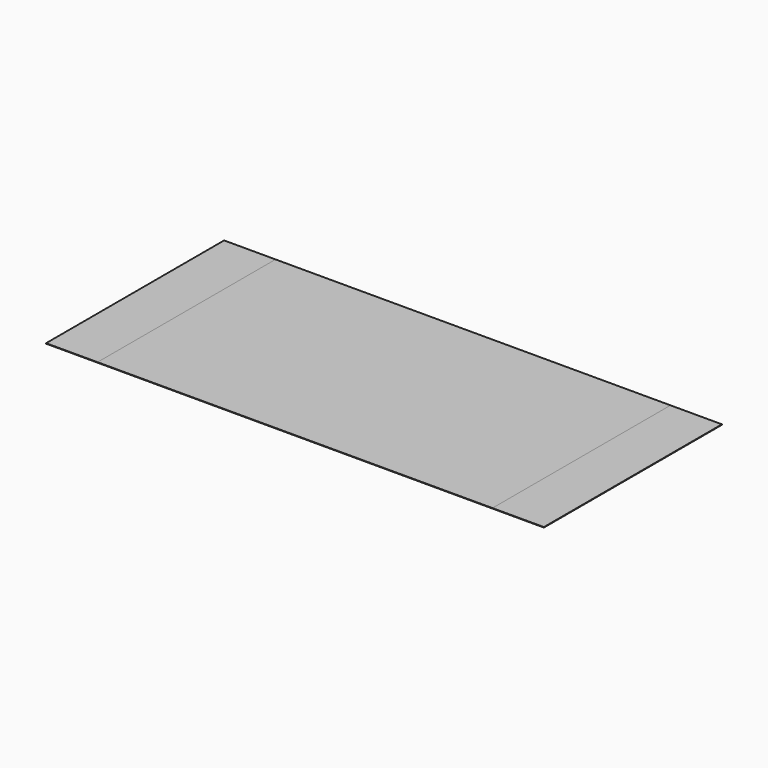
from build123d import *

# Parameters (mm, degrees)
F0_W     = 1377.95
F0_H     = 615.95
F1_DEPTH = 1.27
F2_W     = 142.392713
F2_H     = 615.95
F2_W_2   = 142.392714
F3_DEPTH = 0.000508


with BuildPart() as f1:
    # F0 (on Top) → F1 (new body)
    with BuildSketch(Plane.XY):
        with Locations((581.779068, -198.998591)):
            Rectangle(F0_W, F0_H)
    extrude(amount=F1_DEPTH)


with BuildPart() as f3:
    # F2 (on face) → F3 (new body)
    with BuildSketch(Plane.XY.offset(1.27)):
        with Locations((-35.999575, -198.998591)):
            Rectangle(F2_W, F2_H)
        with Locations((1199.557711, -198.998591)):
            Rectangle(F2_W_2, F2_H)
    extrude(amount=F3_DEPTH)


solid = Compound([f1.part, f3.part])
